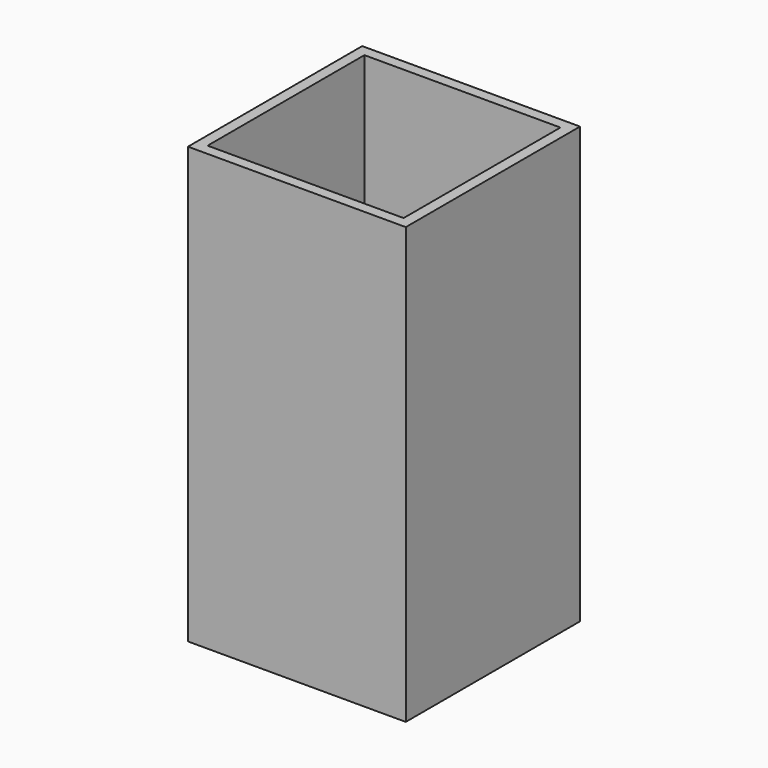
from build123d import *

# Parameters (mm, degrees)
BOX001_W     = 90
BOX001_H     = 90
BOX001_DEPTH = 200
BOX_W        = 100
BOX_H        = 100
BOX_DEPTH    = 200


with BuildPart() as cube001:
    # Box001 → Box001 (new body)
    with BuildSketch(Plane(origin=(5, 5, 10), x_dir=(1, 0, 0), z_dir=(0, 0, 1))):
        with Locations((45, 45)):
            Rectangle(BOX001_W, BOX001_H)
    extrude(amount=BOX001_DEPTH)


with BuildPart() as cut:
    # Box → Box (new body)
    with BuildSketch(Plane.XY):
        with Locations((50, 50)):
            Rectangle(BOX_W, BOX_H)
    extrude(amount=BOX_DEPTH)

    # Cut: cut Cube001
    add(cube001.part, mode=Mode.SUBTRACT)


solid = cut.part
